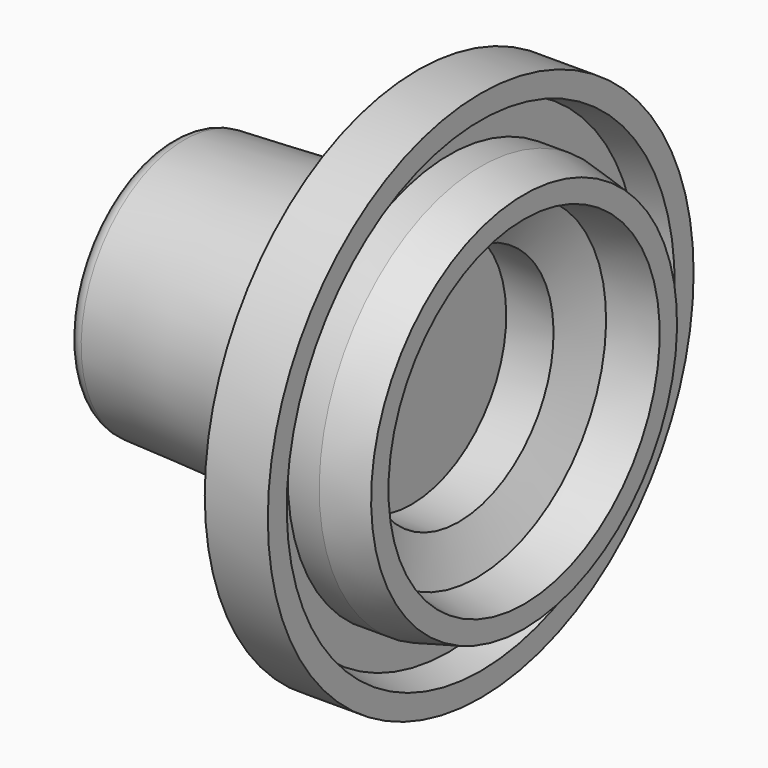
from build123d import *


with BuildPart() as f1:
    # F0 (on Front) → F1 (revolve)
    with BuildSketch(Plane.XZ):
        with BuildLine():
            ThreePointArc((-30.735126, -14.345073), (-30.183512, -15.724301), (-28.832915, -16.342715))
            Line((-28.832915, -16.342715), (-7.235178, -17.4))
            Line((-7.235178, -17.4), (0.764822, -23.264802))
            Line((0.764822, -23.264802), (0.764822, -33.75))
            Line((0.764822, -33.75), (8.764822, -33.75))
            Line((8.764822, -33.75), (8.764822, -30.75))
            Line((8.764822, -30.75), (4.764822, -29.899774))
            Line((4.764822, -29.899774), (4.764822, -25.6))
            Line((4.764822, -25.6), (8.764822, -25.6))
            Line((8.764822, -25.6), (14.264822, -24.25))
            Line((14.264822, -24.25), (14.264822, -21.5))
            Line((14.264822, -21.5), (8.264822, -20.5))
            Line((8.264822, -20.5), (6, -15))
            Line((6, -15), (0, -15))
            Line((0, -15), (0, 0))
            Line((0, 0), (-30.735126, 0))
            Line((-30.735126, 0), (-30.735126, -14.345073))
        make_face()
    revolve(axis=Axis((-8.246858, 0, 0), (1, 0, 0)))


solid = f1.part
